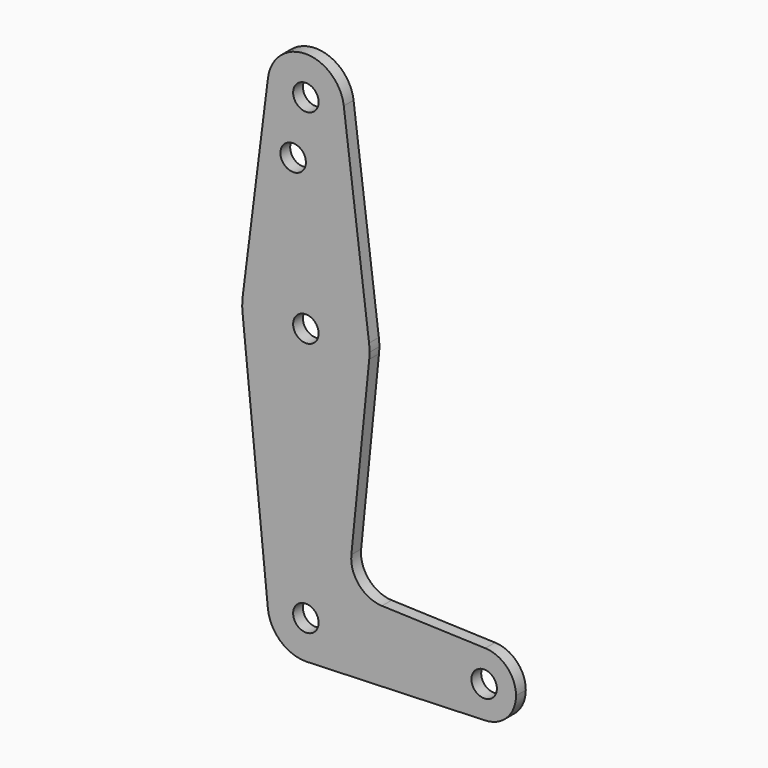
from build123d import *

# Parameters (mm, degrees)
F0_R     = 3.175
F1_DEPTH = 3.048


with BuildPart() as f1:
    # F0 (on Front) → F1 (new body)
    with BuildSketch(Plane.XZ):
        with BuildLine():
            ThreePointArc((15.7954255641, 61.9125), (0, 47.625), (-15.7954255641, 61.9125))
            Line((-15.7954255641, 61.9125), (-9.4772553384, -0.9525))
            ThreePointArc((-9.4772553384, -0.9525), (-0.4768479324, 9.5130563464), (9.525, 0))
            ThreePointArc((9.525, 0), (6.9705567315, -6.4912990883), (0.6773435479, -9.500885786))
            Line((0.6773435479, -9.500885786), (44.7324052746, -7.9324746146))
            ThreePointArc((44.7324052746, -7.9324746146), (36.5125, 0), (44.7324052746, 7.9324746146))
            Line((44.7324052746, 7.9324746146), (18.968327868, 8.8497055806))
            ThreePointArc((18.968327868, 8.8497055806), (13.2612039825, 11.5674628959), (11.3408358685, 17.5898921545))
            Line((11.3408358685, 17.5898921545), (15.7954255641, 61.9125))
        make_face()
        with BuildLine():
            ThreePointArc((9.4502929642, 115.490625), (9.5063048942, 114.896483242), (9.525, 114.3))
            ThreePointArc((9.525, 114.3), (-0.596483242, 104.7936951058), (-9.4502929642, 115.490625))
            Line((-9.4502929642, 115.490625), (-15.7504882737, 65.484375))
            ThreePointArc((-15.7504882737, 65.484375), (0, 79.375), (15.7504882737, 65.484375))
            Line((15.7504882737, 65.484375), (9.4502929642, 115.490625))
        make_face()
        with Locations((-3.175, 100.0252)):
            Circle(F0_R, mode=Mode.SUBTRACT)
        with BuildLine():
            ThreePointArc((15.875, 63.5), (15.8438414904, 64.4941387366), (15.7504882737, 65.484375))
            ThreePointArc((15.7504882737, 65.484375), (0, 79.375), (-15.7504882737, 65.484375))
            ThreePointArc((-15.7504882737, 65.484375), (-15.8737438155, 63.6997054867), (-15.7954255641, 61.9125))
            ThreePointArc((-15.7954255641, 61.9125), (0, 47.625), (15.7954255641, 61.9125))
            ThreePointArc((15.7954255641, 61.9125), (15.8550939106, 62.7052534459), (15.875, 63.5))
        make_face()
        with Locations((0, 63.5)):
            Circle(F0_R, mode=Mode.SUBTRACT)
        with BuildLine():
            ThreePointArc((-9.4502929642, 115.490625), (-0.596483242, 104.7936951058), (9.525, 114.3))
            ThreePointArc((9.525, 114.3), (9.5063048942, 114.896483242), (9.4502929642, 115.490625))
            ThreePointArc((9.4502929642, 115.490625), (0, 123.825), (-9.4502929642, 115.490625))
        make_face()
        with Locations((0, 114.3)):
            Circle(F0_R, mode=Mode.SUBTRACT)
        with BuildLine():
            ThreePointArc((9.525, 0), (-0.4768479324, 9.5130563464), (-9.4772553384, -0.9525))
            ThreePointArc((-9.4772553384, -0.9525), (-6.3895642457, -7.063929059), (0, -9.525))
            Line((0, -9.525), (0.6773435479, -9.500885786))
            ThreePointArc((0.6773435479, -9.500885786), (6.9705567315, -6.4912990883), (9.525, 0))
        make_face()
        Circle(F0_R, mode=Mode.SUBTRACT)
        with BuildLine():
            Line((0.6773435479, -9.500885786), (0, -9.525))
            ThreePointArc((0, -9.525), (0.3388863295, -9.5189695375), (0.6773435479, -9.500885786))
        make_face()
        with BuildLine():
            ThreePointArc((52.3875, 0), (50.1616327839, 5.5119104847), (44.7324052746, 7.9324746146))
            ThreePointArc((44.7324052746, 7.9324746146), (36.5125, 0), (44.7324052746, -7.9324746146))
            ThreePointArc((44.7324052746, -7.9324746146), (50.1616327839, -5.5119104847), (52.3875, 0))
        make_face()
        with Locations((44.45, 0)):
            Circle(F0_R, mode=Mode.SUBTRACT)
    extrude(amount=F1_DEPTH)


solid = f1.part
